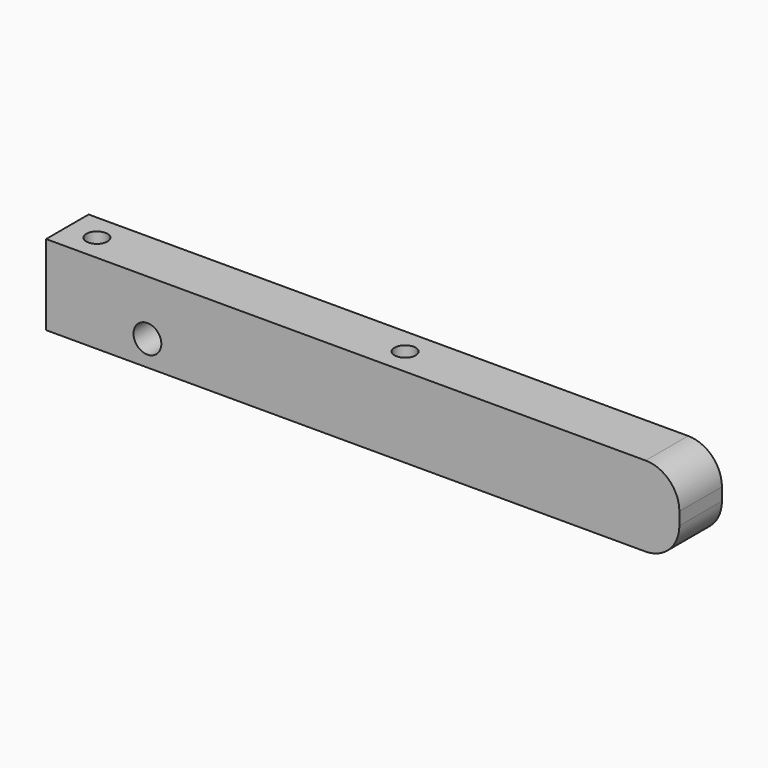
from build123d import *

# Parameters (mm, degrees)
F0_W     = 75
F0_H     = 9.5
F1_DEPTH = 6.3
F3_D     = 2.5
F5_D     = 3.3
F6_R     = 4


with BuildPart() as f1:
    # F0 (on Front) → F1 (new body)
    with BuildSketch(Plane.XZ):
        with Locations((37.5, 4.75)):
            Rectangle(F0_W, F0_H)
    extrude(amount=F1_DEPTH)

    # F3 (through all)
    with Locations(Plane.XY.offset(9.5)):
        with Locations((3.5, -3.15), (40, -3.15)):
            Hole(F3_D / 2)

    # F5 (through all)
    with Locations(Plane.XZ.offset(6.3)):
        with Locations((12, 3)):
            Hole(F5_D / 2)

    # F6
    f6_edges = [f1.edges().sort_by_distance(p)[0] for p in [
        (75, -3.15, 9.5),
        (75, -3.15, 0),
    ]]
    fillet(f6_edges, radius=F6_R)


solid = f1.part
